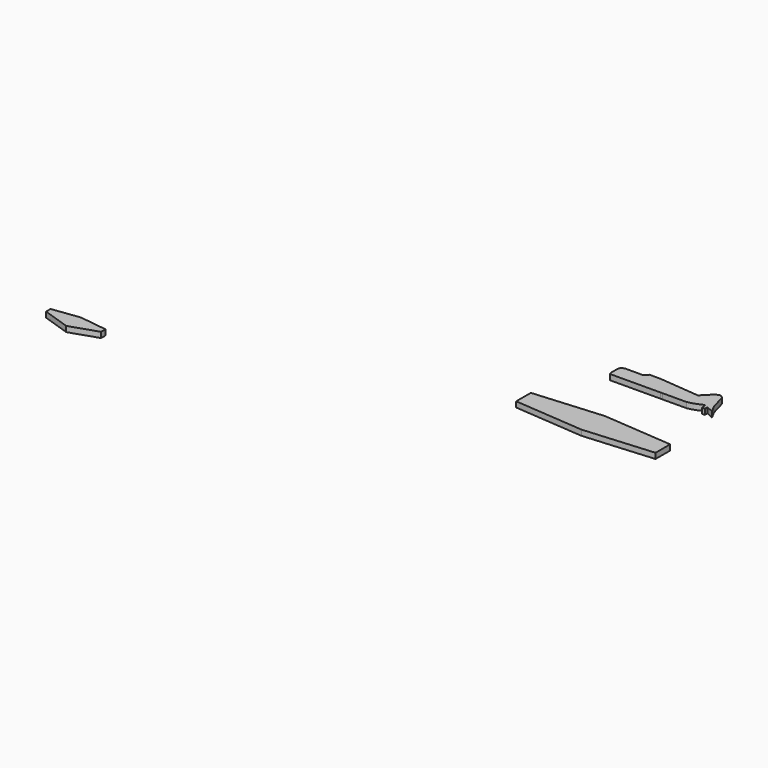
from build123d import *

# Parameters (mm, degrees)
F3_DEPTH = 19.05
F4_DEPTH = 19.05
F5_DEPTH = 19.05


with BuildPart() as f3:
    # F0 (on Top) → F3 (new body)
    with BuildSketch(Plane.XY):
        with BuildLine():
            add(Edge.make_bspline(
                [(-177.8, -44.0448261797), (-177.0777895805, -46.8072402804), (-176.3555364748, -49.58105635), (-174.3441075087, -50.8)],
                knots=[0, 0, 0, 0, 0.4535902473, 0.4535902473, 0.4535902473, 0.4535902473], degree=3))
            Line((-174.3441075087, -50.8), (-163.3332285527, -50.7393466807))
            Line((-163.3332285527, -50.7393466807), (-101.6022072413, -50.3993019521))
            Line((-101.6022072413, -50.3993019521), (-88.9025925916, -50.3293462487))
            Line((-88.9025925916, -50.3293462487), (-50.8037486425, -50.1194791385))
            Line((-50.8037486425, -50.1194791385), (-0.0052900438, -49.8396563249))
            Line((-0.0052900438, -49.8396563249), (5.7788467086, -49.807794464))
            Line((5.7788467086, -49.807794464), (88.8920125041, -49.3499664011))
            add(Edge.make_bspline(
                [(139.7, -31.75), (124.0234794468, -39.4996184949), (108.2155005248, -46.1477855032), (88.8920125041, -49.3499664011)],
                knots=[0, 0, 0, 0, 0.4457762067, 0.4457762067, 0.4457762067, 0.4457762067], degree=3))
            Line((139.7, -31.75), (142.5074338913, -49.0546263754))
            Line((142.5074338913, -49.0546263754), (152.3900857525, -49.0001878841))
            Line((152.3900857525, -49.0001878841), (152.4, -49.0001332715))
            Line((152.4, -49.0001332715), (152.4, -38.1))
            Line((152.4, -38.1), (176.774539657, -48.8658663576))
            Line((176.774539657, -48.8658663576), (162.9887670279, -22.8643473238))
            Line((162.9887670279, -22.8643473238), (148.1155100606, 29.9144967843))
            add(Edge.make_bspline(
                [(119.5501881436, 30.6501881436), (125.5058537914, 34.6214833979), (136.6923147426, 42.0807233747), (144.4759008901, 33.7908473707), (148.1155100606, 29.9144967843)],
                knots=[0, 0, 0, 0, 0.5323994491, 1, 1, 1, 1], degree=3))
            Line((119.5501881436, 30.6501881436), (88.9, 0))
            Line((88.9, 0), (-50.8, 12.7))
            Line((-50.8, 12.7), (-88.9, 12.7))
            Line((-88.9, 12.7), (-101.6, 0))
            Line((-101.6, 0), (-163.6665612459, 0))
            add(Edge.make_bspline(
                [(-177.8, -13.3469169959), (-176.921741721, -10.5708188304), (-175.0123951815, -4.535540197), (-167.6450735995, -1.5904254201), (-163.6665612459, 0)],
                knots=[0, 0, 0, 0, 0.459978459, 1, 1, 1, 1], degree=3))
            Line((-177.8, -13.3469169959), (-177.8, -44.0448261797))
        make_face()
    extrude(amount=F3_DEPTH)


with BuildPart() as f4:
    # F1 (on Top) → F4 (new body)
    with BuildSketch(Plane.XY):
        Polygon((-31.9079441309, -251.5737625599), (-273.2079441309, -270.6237625599), (-273.2079441309, -334.1237625599), (-31.9079441309, -353.1737625599), (209.3920558691, -334.1237625599), (209.3920558691, -270.6237625599), align=None)
    extrude(amount=F4_DEPTH)


with BuildPart() as f5:
    # F2 (on Top) → F5 (new body)
    with BuildSketch(Plane.XY):
        Polygon((-1499.2469444275, -685.9311928749), (-1594.4969444275, -698.6311928749), (-1594.4969444275, -717.6811928749), (-1499.2469444275, -749.4311928749), (-1403.9969444275, -717.6811928749), (-1403.9969444275, -698.6311928749), align=None)
    extrude(amount=F5_DEPTH)


solid = Compound([f3.part, f4.part, f5.part])
